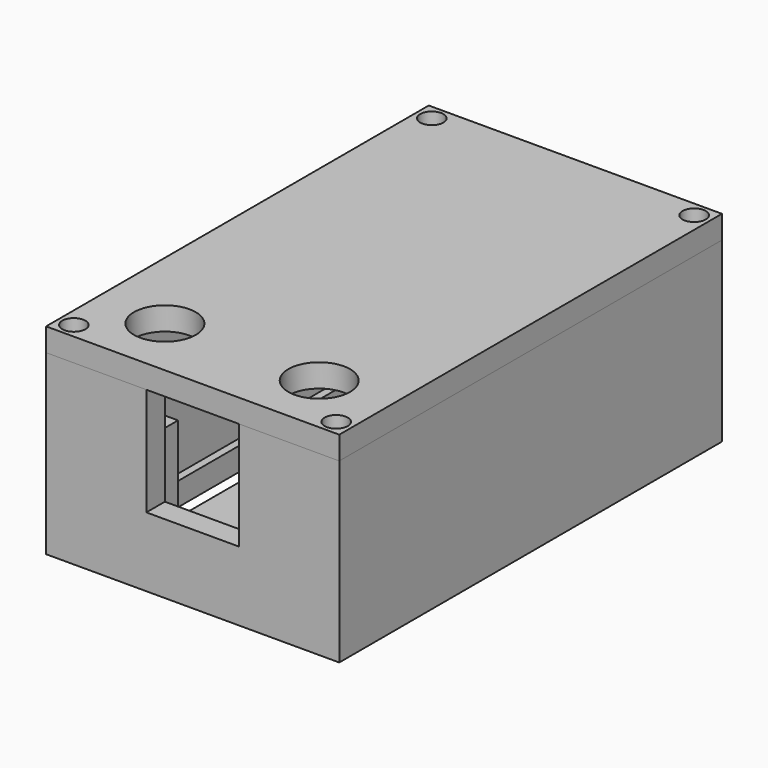
from build123d import *

# Parameters (mm, degrees)
BOX010_W          = 12
BOX010_H          = 3
BOX010_DEPTH      = 14
BOX009_W          = 5
BOX009_H          = 40
BOX009_DEPTH      = 3
BOX008_W          = 5
BOX008_H          = 40
BOX008_DEPTH      = 3
BOX005_W          = 6.5
BOX005_H          = 6.5
BOX005_DEPTH      = 14.5
BOX006_W          = 6.5
BOX006_H          = 6.5
BOX006_DEPTH      = 14.5
BOX007_W          = 6.5
BOX007_H          = 6.5
BOX007_DEPTH      = 14.5
BOX004_W          = 6.5
BOX004_H          = 6.5
BOX004_DEPTH      = 14.5
BOX001_W          = 32
BOX001_H          = 56
BOX001_DEPTH      = 23
BOX_W             = 38
BOX_H             = 62
BOX_DEPTH         = 23
BOX002_W          = 38
BOX002_H          = 62
BOX002_DEPTH      = 3
CYLINDER003_R     = 1.5
CYLINDER003_DEPTH = 3
CYLINDER004_R     = 1.5
CYLINDER004_DEPTH = 3
CYLINDER005_R     = 1.5
CYLINDER005_DEPTH = 3
CYLINDER002_R     = 1.5
CYLINDER002_DEPTH = 3
CYLINDER001_R     = 4
CYLINDER001_DEPTH = 10
CYLINDER_R        = 4
CYLINDER_DEPTH    = 10
BOX003_W          = 38
BOX003_H          = 62
BOX003_DEPTH      = 3


with BuildPart() as box010:
    # Box010 → Box010 (new body)
    with BuildSketch(Plane(origin=(13, 0, 9), x_dir=(1, 0, 0), z_dir=(0, 0, 1))):
        with Locations((6, 1.5)):
            Rectangle(BOX010_W, BOX010_H)
    extrude(amount=BOX010_DEPTH)


with BuildPart() as box009:
    # Box009 → Box009 (new body)
    with BuildSketch(Plane(origin=(29, 12, 0), x_dir=(1, 0, 0), z_dir=(0, 0, 1))):
        with Locations((2.5, 20)):
            Rectangle(BOX009_W, BOX009_H)
    extrude(amount=BOX009_DEPTH)


with BuildPart() as obj1:
    # Box008 → Box008 (new body)
    with BuildSketch(Plane(origin=(4, 12, 0), x_dir=(1, 0, 0), z_dir=(0, 0, 1))):
        with Locations((2.5, 20)):
            Rectangle(BOX008_W, BOX008_H)
    extrude(amount=BOX008_DEPTH)

    # Fusion003: union Box009
    add(box009.part)


with BuildPart() as box005:
    # Box005 → Box005 (new body)
    with BuildSketch(Plane(origin=(28.5, 3, 0), x_dir=(1, 0, 0), z_dir=(0, 0, 1))):
        with Locations((3.25, 3.25)):
            Rectangle(BOX005_W, BOX005_H)
    extrude(amount=BOX005_DEPTH)


with BuildPart() as box006:
    # Box006 → Box006 (new body)
    with BuildSketch(Plane(origin=(3, 52.5, 0), x_dir=(1, 0, 0), z_dir=(0, 0, 1))):
        with Locations((3.25, 3.25)):
            Rectangle(BOX006_W, BOX006_H)
    extrude(amount=BOX006_DEPTH)


with BuildPart() as box007:
    # Box007 → Box007 (new body)
    with BuildSketch(Plane(origin=(28.5, 52.5, 0), x_dir=(1, 0, 0), z_dir=(0, 0, 1))):
        with Locations((3.25, 3.25)):
            Rectangle(BOX007_W, BOX007_H)
    extrude(amount=BOX007_DEPTH)


with BuildPart() as obj2:
    # Box004 → Box004 (new body)
    with BuildSketch(Plane(origin=(3, 3, 0), x_dir=(1, 0, 0), z_dir=(0, 0, 1))):
        with Locations((3.25, 3.25)):
            Rectangle(BOX004_W, BOX004_H)
    extrude(amount=BOX004_DEPTH)

    # Fusion001: union Box005, Box006, Box007
    add(box005.part)
    add(box006.part)
    add(box007.part)


with BuildPart() as box001:
    # Box001 → Box001 (new body)
    with BuildSketch(Plane(origin=(3, 3, 0), x_dir=(1, 0, 0), z_dir=(0, 0, 1))):
        with Locations((16, 28)):
            Rectangle(BOX001_W, BOX001_H)
    extrude(amount=BOX001_DEPTH)


with BuildPart() as carcasa_laterales:
    # Box → Box (new body)
    with BuildSketch(Plane.XY):
        with Locations((19, 31)):
            Rectangle(BOX_W, BOX_H)
    extrude(amount=BOX_DEPTH)

    # Cut: cut Box001
    add(box001.part, mode=Mode.SUBTRACT)


with BuildPart() as carcasa:
    # Box002 → Box002 (new body)
    with BuildSketch(Plane.XY):
        with Locations((19, 31)):
            Rectangle(BOX002_W, BOX002_H)
    extrude(amount=BOX002_DEPTH)

    # Fusion: union carcasa laterales
    add(carcasa_laterales.part)

    # Fusion002: union obj2
    add(obj2.part)

    # Cut001: cut obj1
    add(obj1.part, mode=Mode.SUBTRACT)

    # Cut002: cut Box010
    add(box010.part, mode=Mode.SUBTRACT)


with BuildPart() as tornillo2:
    # Cylinder003 → Cylinder003 (new body)
    with BuildSketch(Plane(origin=(36, 2, 23), x_dir=(1, 0, 0), z_dir=(0, 0, 1))):
        Circle(CYLINDER003_R)
    extrude(amount=CYLINDER003_DEPTH)


with BuildPart() as tornillo3:
    # Cylinder004 → Cylinder004 (new body)
    with BuildSketch(Plane(origin=(2, 60, 23), x_dir=(1, 0, 0), z_dir=(0, 0, 1))):
        Circle(CYLINDER004_R)
    extrude(amount=CYLINDER004_DEPTH)


with BuildPart() as tornillo4:
    # Cylinder005 → Cylinder005 (new body)
    with BuildSketch(Plane(origin=(36, 60, 23), x_dir=(1, 0, 0), z_dir=(0, 0, 1))):
        Circle(CYLINDER005_R)
    extrude(amount=CYLINDER005_DEPTH)


with BuildPart() as tornillos:
    # Cylinder002 → Cylinder002 (new body)
    with BuildSketch(Plane(origin=(2, 2, 23), x_dir=(1, 0, 0), z_dir=(0, 0, 1))):
        Circle(CYLINDER002_R)
    extrude(amount=CYLINDER002_DEPTH)

    # Fusion005: union tornillo2, tornillo3, tornillo4
    add(tornillo2.part)
    add(tornillo3.part)
    add(tornillo4.part)


with BuildPart() as switch2:
    # Cylinder001 → Cylinder001 (new body)
    with BuildSketch(Plane(origin=(29, 8, 23), x_dir=(1, 0, 0), z_dir=(0, 0, 1))):
        Circle(CYLINDER001_R)
    extrude(amount=CYLINDER001_DEPTH)


with BuildPart() as switches:
    # Cylinder → Cylinder (new body)
    with BuildSketch(Plane(origin=(9, 8, 23), x_dir=(1, 0, 0), z_dir=(0, 0, 1))):
        Circle(CYLINDER_R)
    extrude(amount=CYLINDER_DEPTH)

    # Fusion004: union switch2
    add(switch2.part)


with BuildPart() as tapa:
    # Box003 → Box003 (new body)
    with BuildSketch(Plane.XY.offset(23)):
        with Locations((19, 31)):
            Rectangle(BOX003_W, BOX003_H)
    extrude(amount=BOX003_DEPTH)

    # Cut003: cut switches
    add(switches.part, mode=Mode.SUBTRACT)

    # Cut004: cut tornillos
    add(tornillos.part, mode=Mode.SUBTRACT)


solid = Compound([carcasa.part, tapa.part])
